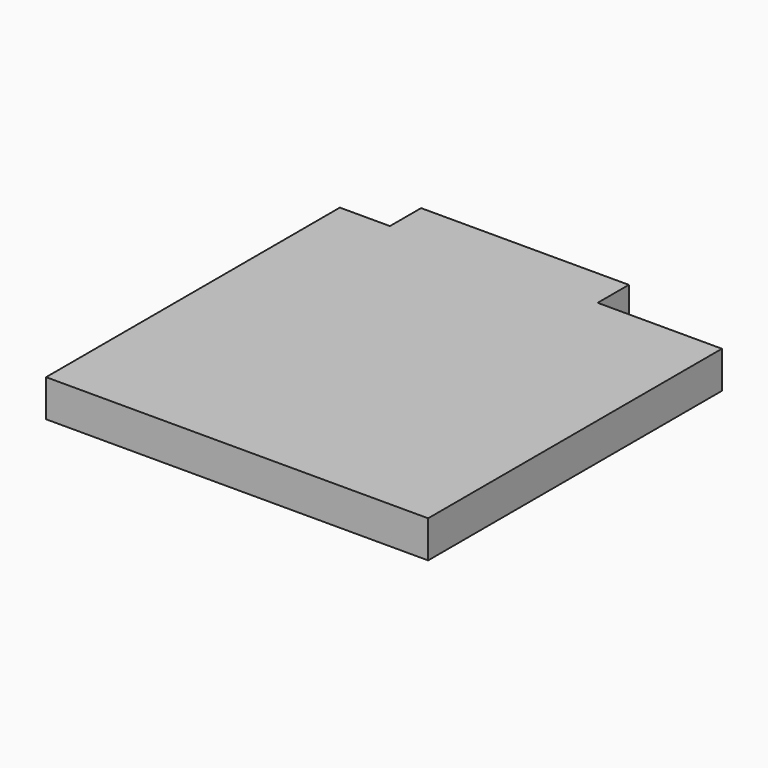
from build123d import *

# Parameters (mm, degrees)
F3_DEPTH  = 240
F5_DEPTH  = 20
F6_W      = 112
F6_H      = 241.1060750484
F7_DEPTH  = 25
F8_W      = 70.001994
F8_H      = 85
F9_DEPTH  = 25
F10_W     = 50
F10_H     = 198.001994
F11_DEPTH = 50
F12_DEPTH = 240.001
F13_DEPTH = 70.001


with BuildPart() as f3:
    # F2 (on face) → F3 (new body)
    with BuildSketch(Plane.XY):
        Polygon((-627, -343.001994), (-627, -273), (-627, -187), (-765, -187), (-877, -187), (-925, -187), (-925, -427.001994), (-627, -427.001994), align=None)
        Polygon((-765, -208), (-648, -208), (-648, -273), (-648, -343.001994), (-648, -406.001994), (-904, -406.001994), (-904, -208), (-877, -208), align=None, mode=Mode.SUBTRACT)
    extrude(amount=F3_DEPTH)

    # F4 (on face) → F5 (join)
    with BuildSketch(Plane.XY):
        Polygon((-648, -273), (-648, -208), (-765, -208), (-877, -208), (-904, -208), (-904, -406.001994), (-648, -406.001994), (-648, -343.001994), align=None)
    extrude(amount=F5_DEPTH)

    # F6 (on face) → F7 (cut)
    with BuildSketch(Plane(origin=(0, -187, 0), x_dir=(-1, 0, 0), z_dir=(0, 1, 0))):
        with Locations((821, 140.5530375242)):
            Rectangle(F6_W, F6_H)
    extrude(amount=-F7_DEPTH, mode=Mode.SUBTRACT)

    # F8 (on face) → F9 (cut)
    with BuildSketch(Plane.YZ.offset(-627)):
        with Locations((-308.000997, 177.5)):
            Rectangle(F8_W, F8_H)
    extrude(amount=-F9_DEPTH, mode=Mode.SUBTRACT)

    # F10 (on face) → F11 (join)
    with BuildSketch(Plane.XY.offset(20)):
        with Locations((-673, -307.000997)):
            Rectangle(F10_W, F10_H)
    extrude(amount=F11_DEPTH)

    # F12 (cut, through all): a face of the model
    f12_faces = [f3.faces().sort_by_distance(p)[0] for p in [
        (-630.8262900716, -307.000997, 240),
    ]]
    extrude(f12_faces, amount=-F12_DEPTH, mode=Mode.SUBTRACT)

    # F13 (cut, through all): a face of the model
    f13_faces = [f3.faces().sort_by_distance(p)[0] for p in [
        (-673, -307.000997, 70),
    ]]
    extrude(f13_faces, amount=-F13_DEPTH, mode=Mode.SUBTRACT)


solid = f3.part
